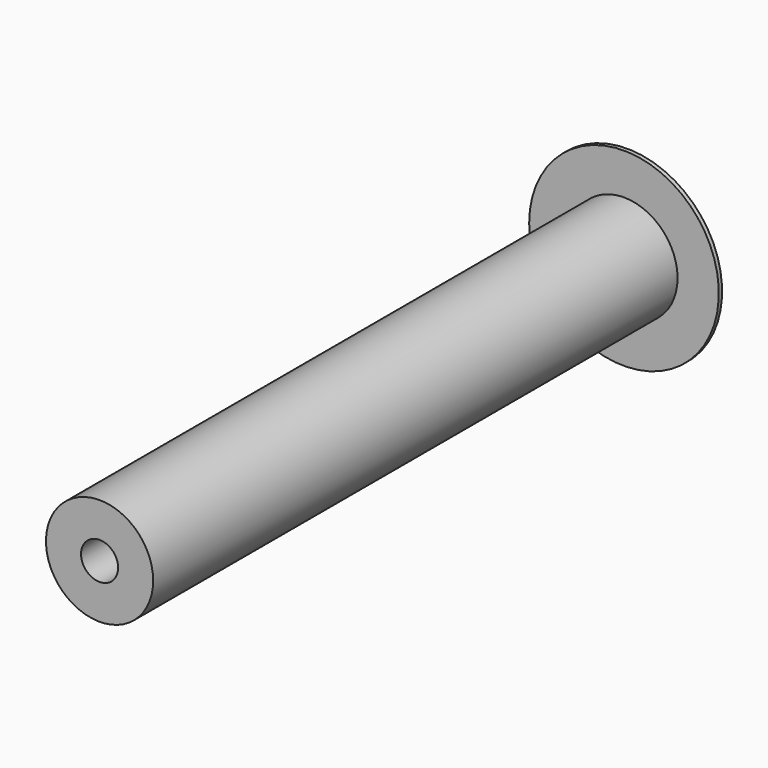
from build123d import *

# Parameters (mm, degrees)
F0_R     = 2.6
F0_R_2   = 0.9
F1_DEPTH = 32
F2_R     = 4.6
F2_R_2   = 2.6
F3_DEPTH = 0.2


with BuildPart() as f1:
    # F0 (on Front) → F1 (new body)
    with BuildSketch(Plane.XZ):
        Circle(F0_R)
        Circle(F0_R_2, mode=Mode.SUBTRACT)
    extrude(amount=F1_DEPTH)

    # F2 (on face) → F3 (join)
    with BuildSketch(Plane(origin=(0, 0, 0), x_dir=(-1, 0, 0), z_dir=(0, 1, 0))):
        Circle(F2_R)
        Circle(F2_R_2, mode=Mode.SUBTRACT)
    extrude(amount=-F3_DEPTH)


solid = f1.part
